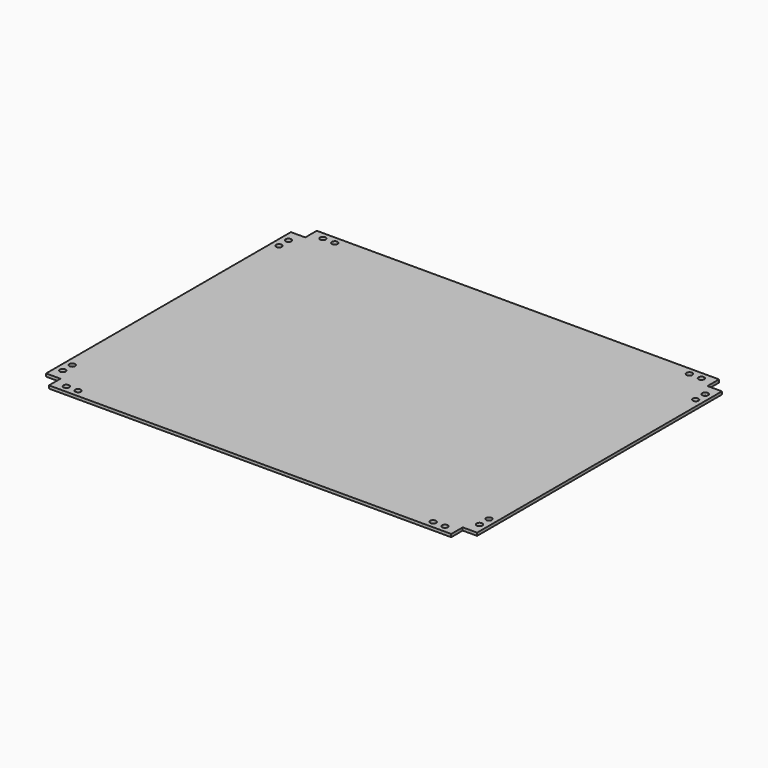
from build123d import *

# Parameters (mm, degrees)
F0_R     = 0.515571
F0_R_2   = 0.516732
F1_DEPTH = 0.508


with BuildPart() as f1:
    # F0 (on Top) → F1 (new body)
    with BuildSketch(Plane.XY):
        Polygon((2.54, 1.27), (2.54, 0), (73.66, 0), (73.66, 1.27), (73.66, 2.54), (74.93, 2.54), (76.2, 2.54), (76.2, 56.642), (74.93, 56.642), (73.66, 56.642), (73.66, 57.912), (73.66, 59.182), (2.54, 59.182), (2.54, 57.912), (2.54, 56.642), (1.27, 56.642), (0, 56.642), (0, 2.54), (1.27, 2.54), (2.54, 2.54), align=None)
        with BuildLine():
            ThreePointArc((5.119342, 1.27), (4.60881, 0.759468), (4.098278, 1.27))
            ThreePointArc((4.098278, 1.27), (4.60881, 1.780532), (5.119342, 1.27))
        make_face(mode=Mode.SUBTRACT)
        with BuildLine():
            ThreePointArc((7.180349, 1.27), (6.67762, 0.767271), (6.17489, 1.27))
            ThreePointArc((6.17489, 1.27), (6.67762, 1.772729), (7.180349, 1.27))
        make_face(mode=Mode.SUBTRACT)
        with BuildLine():
            ThreePointArc((1.774696, 4.646398), (1.626874, 4.289524), (1.27, 4.141702))
            ThreePointArc((1.27, 4.141702), (0.765304, 4.646398), (1.27, 5.151094))
            ThreePointArc((1.27, 5.151094), (1.626874, 5.003272), (1.774696, 4.646398))
        make_face(mode=Mode.SUBTRACT)
        with BuildLine():
            ThreePointArc((1.778091, 6.752796), (1.629275, 6.393521), (1.27, 6.244705))
            ThreePointArc((1.27, 6.244705), (0.910725, 7.112071), (1.778091, 6.752796))
        make_face(mode=Mode.SUBTRACT)
        with Locations((69.4436, 1.27)):
            Circle(F0_R, mode=Mode.SUBTRACT)
        with BuildLine():
            ThreePointArc((71.049353, 1.27), (71.5518, 1.772447), (72.054247, 1.27))
            ThreePointArc((72.054247, 1.27), (71.5518, 0.767553), (71.049353, 1.27))
        make_face(mode=Mode.SUBTRACT)
        with BuildLine():
            ThreePointArc((75.446638, 4.649455), (75.295318, 4.284136), (74.93, 4.132817))
            ThreePointArc((74.93, 4.132817), (74.413362, 4.649455), (74.93, 5.166093))
            ThreePointArc((74.93, 5.166093), (75.295318, 5.014773), (75.446638, 4.649455))
        make_face(mode=Mode.SUBTRACT)
        with BuildLine():
            ThreePointArc((75.434085, 6.758909), (75.286442, 6.402467), (74.93, 6.254824))
            ThreePointArc((74.93, 6.254824), (74.573558, 7.115351), (75.434085, 6.758909))
        make_face(mode=Mode.SUBTRACT)
        with BuildLine():
            ThreePointArc((1.779113, 52.423321), (0.910003, 52.063324), (1.27, 52.932433))
            ThreePointArc((1.27, 52.932433), (1.629997, 52.783318), (1.779113, 52.423321))
        make_face(mode=Mode.SUBTRACT)
        with BuildLine():
            ThreePointArc((1.27, 54.023341), (0.76068, 54.53266), (1.27, 55.04198))
            ThreePointArc((1.27, 55.04198), (1.630143, 54.892804), (1.77932, 54.53266))
            ThreePointArc((1.77932, 54.53266), (1.630143, 54.172517), (1.27, 54.023341))
        make_face(mode=Mode.SUBTRACT)
        with BuildLine():
            ThreePointArc((5.154588, 57.912), (4.643598, 57.401009), (4.132607, 57.912))
            ThreePointArc((4.132607, 57.912), (4.643598, 58.422991), (5.154588, 57.912))
        make_face(mode=Mode.SUBTRACT)
        with BuildLine():
            ThreePointArc((7.257511, 57.912), (6.747195, 57.401684), (6.236879, 57.912))
            ThreePointArc((6.236879, 57.912), (6.747195, 58.422316), (7.257511, 57.912))
        make_face(mode=Mode.SUBTRACT)
        with BuildLine():
            ThreePointArc((75.433384, 52.431013), (74.574054, 52.075067), (74.93, 52.934398))
            ThreePointArc((74.93, 52.934398), (75.285946, 52.78696), (75.433384, 52.431013))
        make_face(mode=Mode.SUBTRACT)
        with BuildLine():
            ThreePointArc((74.93, 54.015517), (74.409011, 54.536507), (74.93, 55.057496))
            ThreePointArc((74.93, 55.057496), (75.298395, 54.904902), (75.450989, 54.536507))
            ThreePointArc((75.450989, 54.536507), (75.298395, 54.168112), (74.93, 54.015517))
        make_face(mode=Mode.SUBTRACT)
        with Locations((69.4436, 57.912)):
            Circle(F0_R_2, mode=Mode.SUBTRACT)
        with BuildLine():
            ThreePointArc((71.049026, 57.912), (71.5518, 58.414774), (72.054574, 57.912))
            ThreePointArc((72.054574, 57.912), (71.5518, 57.409226), (71.049026, 57.912))
        make_face(mode=Mode.SUBTRACT)
    extrude(amount=F1_DEPTH)


solid = f1.part
